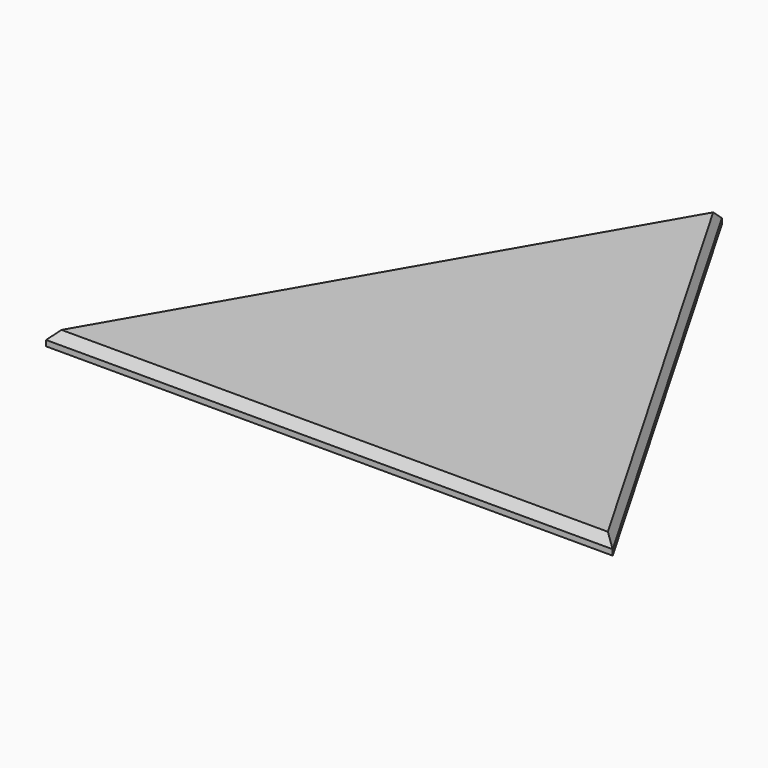
from build123d import *

# Parameters (mm, degrees)
F1_DEPTH = 8
F2_SIZE2 = 2.886751
F2_SIZE  = 5
F3_SIZE2 = 3.501038
F3_SIZE  = 5


with BuildPart() as f1:
    # F0 (on Top) → F1 (new body)
    with BuildSketch(Plane.XY):
        Polygon((-150, 0), (150, 0), (0, 259.807621), align=None)
    extrude(amount=F1_DEPTH)

    # F2
    f2_edges = [f1.edges().sort_by_distance(p)[0] for p in [
        (-75, 129.903811, 8),
        (75, 129.903811, 8),
    ]]
    chamfer(f2_edges, length=F2_SIZE, length2=F2_SIZE2)

    # F3
    f3_edges = [f1.edges().sort_by_distance(p)[0] for p in [
        (0, 0, 8),
    ]]
    chamfer(f3_edges, length=F3_SIZE, length2=F3_SIZE2)


solid = f1.part
